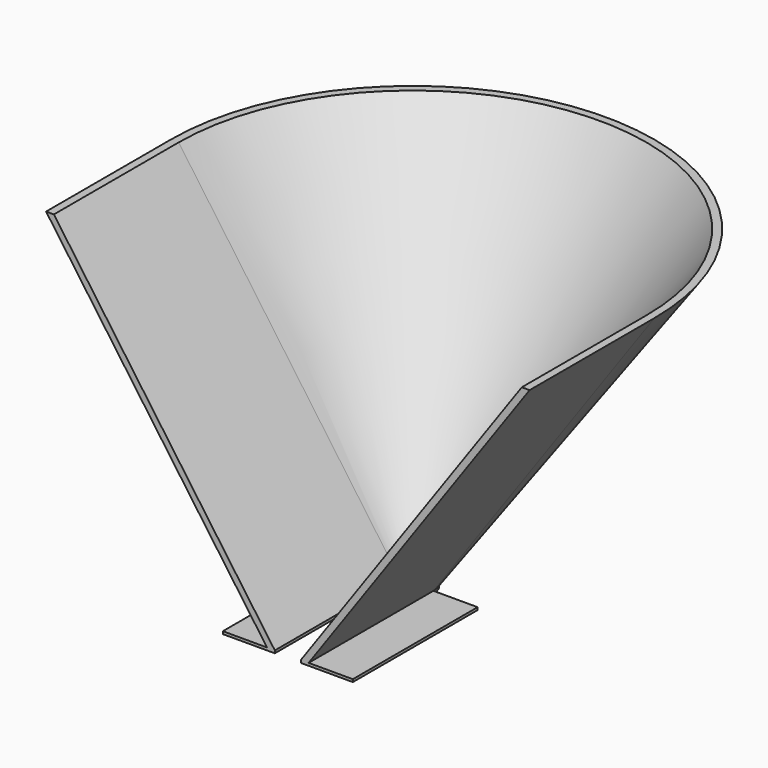
from build123d import *

# Parameters (mm, degrees)
F4_W     = 17
F4_H     = 60
F4_W_2   = 3
F5_DEPTH = 1


with BuildPart() as f3:
    # F0 (on Top) → F3 section 0
    with BuildSketch(Plane.XY):
        with BuildLine():
            Line((5, 60), (5, 0))
            Line((5, 0), (8, 0))
            Line((8, 0), (8, 60))
            ThreePointArc((8, 60), (0, 68), (-8, 60))
            Line((-8, 60), (-8, 0))
            Line((-8, 0), (-5, 0))
            Line((-5, 0), (-5, 60))
            ThreePointArc((-5, 60), (0, 65), (5, 60))
        make_face()
    # F2 (on offset) → F3 section 1
    with BuildSketch(Plane.XY.offset(120)):
        with BuildLine():
            Line((-90, 0), (-90, 60))
            ThreePointArc((-90, 60), (0, 150), (90, 60))
            Line((90, 60), (90, 0))
            Line((90, 0), (93, 0))
            Line((93, 0), (93, 60))
            ThreePointArc((93, 60), (0, 153), (-93, 60))
            Line((-93, 60), (-93, 0))
            Line((-93, 0), (-90, 0))
        make_face()
    loft()

    # F4 (on face) → F5 (join)
    with BuildSketch(Plane(origin=(0, 0, 0), x_dir=(1, 0, 0), z_dir=(0, 0, -1))):
        with BuildLine():
            ThreePointArc((5, -60), (0, -65), (-5, -60))
            Line((-5, -60), (-8, -60))
            ThreePointArc((-8, -60), (0, -68), (8, -60))
            Line((8, -60), (5, -60))
        make_face()
        with Locations((-16.5, -30)):
            Rectangle(F4_W, F4_H)
        with Locations((16.5, -30)):
            Rectangle(F4_W, F4_H)
        with Locations((6.5, -30)):
            Rectangle(F4_W_2, F4_H)
        with Locations((-6.5, -30)):
            Rectangle(F4_W_2, F4_H)
    extrude(amount=F5_DEPTH)


solid = f3.part
